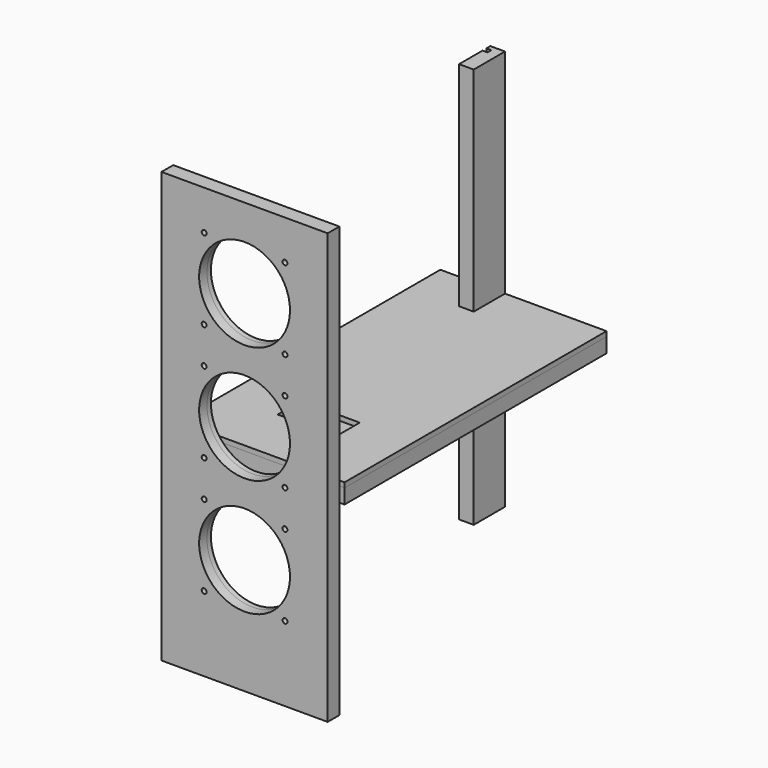
from build123d import *

# Parameters (mm, degrees)
F0_W      = 215.9
F0_H      = 558.8
F0_R      = 3.18
F0_R_2    = 59
F0_W_2    = 6.4
F0_H_2    = 538.48
F1_DEPTH  = 12.7
F2_DEPTH  = 6.35
F3_W      = 6.35
F3_H      = 425.45
F3_W_2    = 76.2
F3_H_2    = 38.1
F3_W_3    = 1.32
F3_H_3    = 6.35
F3_W_4    = 192.99
F4_DEPTH  = 12.7
F5_DEPTH  = 6.35
F6_W      = 6.35
F6_H      = 425.45
F6_W_2    = 190.45
F6_H_2    = 6.35
F7_DEPTH  = 12.7
F8_DEPTH  = 6.35
F9_W      = 6.35
F9_H      = 520.7
F9_W_2    = 38.1
F10_DEPTH = 12.7
F11_DEPTH = 6.35


with BuildPart() as f1:
    # F0 (on Front) → F1 (new body)
    with BuildSketch(Plane.XZ):
        with Locations((36.6268025339, 29.2285963915)):
            Rectangle(F0_W, F0_H)
        with Locations((-15.8731974661, -152.6714036085)):
            Circle(F0_R, mode=Mode.SUBTRACT)
        with Locations((-15.8731974661, -47.6714036085)):
            Circle(F0_R, mode=Mode.SUBTRACT)
        with Locations((-15.8731974661, -0.2714036085)):
            Circle(F0_R, mode=Mode.SUBTRACT)
        with Locations((89.1268025339, -152.6714036085)):
            Circle(F0_R, mode=Mode.SUBTRACT)
        with Locations((36.6268025339, -100.1714036085)):
            Circle(F0_R_2, mode=Mode.SUBTRACT)
        with Locations((89.1268025339, -47.6714036085)):
            Circle(F0_R, mode=Mode.SUBTRACT)
        with Locations((89.1268025339, -0.2714036085)):
            Circle(F0_R, mode=Mode.SUBTRACT)
        with Locations((-61.7731974661, 29.2285963915)):
            Rectangle(F0_W_2, F0_H_2, mode=Mode.SUBTRACT)
        with Locations((-15.8731974661, 104.7285963915)):
            Circle(F0_R, mode=Mode.SUBTRACT)
        with Locations((-15.8731974661, 152.1285963915)):
            Circle(F0_R, mode=Mode.SUBTRACT)
        with Locations((36.6268025339, 204.6285963915)):
            Circle(F0_R_2, mode=Mode.SUBTRACT)
        with Locations((-15.8731974661, 257.1285963915)):
            Circle(F0_R, mode=Mode.SUBTRACT)
        with Locations((36.6268025339, 52.2285963915)):
            Circle(F0_R_2, mode=Mode.SUBTRACT)
        with Locations((89.1268025339, 104.7285963915)):
            Circle(F0_R, mode=Mode.SUBTRACT)
        with Locations((89.1268025339, 152.1285963915)):
            Circle(F0_R, mode=Mode.SUBTRACT)
        with Locations((89.1268025339, 257.1285963915)):
            Circle(F0_R, mode=Mode.SUBTRACT)
        with Locations((-61.7731974661, 29.2285963915)):
            Rectangle(F0_W_2, F0_H_2)
    extrude(amount=F1_DEPTH)

    # F0 (on Front) → F2 (join)
    with BuildSketch(Plane.XZ):
        with Locations((36.6268025339, 29.2285963915)):
            Rectangle(F0_W, F0_H)
        with Locations((-15.8731974661, -152.6714036085)):
            Circle(F0_R, mode=Mode.SUBTRACT)
        with Locations((-15.8731974661, -47.6714036085)):
            Circle(F0_R, mode=Mode.SUBTRACT)
        with Locations((-15.8731974661, -0.2714036085)):
            Circle(F0_R, mode=Mode.SUBTRACT)
        with Locations((89.1268025339, -152.6714036085)):
            Circle(F0_R, mode=Mode.SUBTRACT)
        with Locations((36.6268025339, -100.1714036085)):
            Circle(F0_R_2, mode=Mode.SUBTRACT)
        with Locations((89.1268025339, -47.6714036085)):
            Circle(F0_R, mode=Mode.SUBTRACT)
        with Locations((89.1268025339, -0.2714036085)):
            Circle(F0_R, mode=Mode.SUBTRACT)
        with Locations((-61.7731974661, 29.2285963915)):
            Rectangle(F0_W_2, F0_H_2, mode=Mode.SUBTRACT)
        with Locations((-15.8731974661, 104.7285963915)):
            Circle(F0_R, mode=Mode.SUBTRACT)
        with Locations((-15.8731974661, 152.1285963915)):
            Circle(F0_R, mode=Mode.SUBTRACT)
        with Locations((36.6268025339, 204.6285963915)):
            Circle(F0_R_2, mode=Mode.SUBTRACT)
        with Locations((-15.8731974661, 257.1285963915)):
            Circle(F0_R, mode=Mode.SUBTRACT)
        with Locations((36.6268025339, 52.2285963915)):
            Circle(F0_R_2, mode=Mode.SUBTRACT)
        with Locations((89.1268025339, 104.7285963915)):
            Circle(F0_R, mode=Mode.SUBTRACT)
        with Locations((89.1268025339, 152.1285963915)):
            Circle(F0_R, mode=Mode.SUBTRACT)
        with Locations((89.1268025339, 257.1285963915)):
            Circle(F0_R, mode=Mode.SUBTRACT)
    extrude(amount=-F2_DEPTH)


with BuildPart() as f4:
    # F3 (on Top) → F4 (new body)
    with BuildSketch(Plane.XY):
        with Locations((-68.1481974661, 227.3674610334)):
            Rectangle(F3_W, F3_H)
        Polygon((-64.9731974661, 440.0924610334), (-64.9731974661, 14.6424610334), (-58.5731974661, 14.6424610334), (-58.5731974661, 427.3924610334), (-59.8931974661, 427.3924610334), (-59.8931974661, 433.7424610334), (-58.5731974661, 433.7424610334), (-58.5731974661, 440.0924610334), align=None)
        Polygon((-58.5731974661, 427.3924610334), (-58.5731974661, 14.6424610334), (144.5768025339, 14.6424610334), (144.5768025339, 440.0924610334), (-58.5731974661, 440.0924610334), (-58.5731974661, 433.7424610334), (134.4168025339, 433.7424610334), (134.4168025339, 427.3924610334), align=None)
        with Locations((36.6268025339, 107.6429912329)):
            Rectangle(F3_W_2, F3_H_2, mode=Mode.SUBTRACT)
        with Locations((-59.2331974661, 430.5674610334)):
            Rectangle(F3_W_3, F3_H_3)
        Polygon((-58.5731974661, 427.3924610334), (-58.5731974661, 14.6424610334), (144.5768025339, 14.6424610334), (144.5768025339, 440.0924610334), (-58.5731974661, 440.0924610334), (-58.5731974661, 433.7424610334), (134.4168025339, 433.7424610334), (134.4168025339, 427.3924610334), align=None)
        with Locations((36.6268025339, 107.6429912329)):
            Rectangle(F3_W_2, F3_H_2, mode=Mode.SUBTRACT)
        with Locations((37.9218025339, 430.5674610334)):
            Rectangle(F3_W_4, F3_H_3)
    extrude(amount=F4_DEPTH)

    # F3 (on Top) → F5 (join)
    with BuildSketch(Plane.XY):
        Polygon((-58.5731974661, 427.3924610334), (-58.5731974661, 14.6424610334), (144.5768025339, 14.6424610334), (144.5768025339, 440.0924610334), (-58.5731974661, 440.0924610334), (-58.5731974661, 433.7424610334), (134.4168025339, 433.7424610334), (134.4168025339, 427.3924610334), align=None)
        with Locations((36.6268025339, 107.6429912329)):
            Rectangle(F3_W_2, F3_H_2, mode=Mode.SUBTRACT)
        Polygon((-58.5731974661, 427.3924610334), (-58.5731974661, 14.6424610334), (144.5768025339, 14.6424610334), (144.5768025339, 440.0924610334), (-58.5731974661, 440.0924610334), (-58.5731974661, 433.7424610334), (134.4168025339, 433.7424610334), (134.4168025339, 427.3924610334), align=None)
        with Locations((36.6268025339, 107.6429912329)):
            Rectangle(F3_W_2, F3_H_2, mode=Mode.SUBTRACT)
        with Locations((-68.1481974661, 227.3674610334)):
            Rectangle(F3_W, F3_H)
    extrude(amount=-F5_DEPTH)


with BuildPart() as f7:
    # F6 (on Top) → F7 (new body)
    with BuildSketch(Plane.XY):
        with Locations((-68.1481974661, 227.3674610334)):
            Rectangle(F6_W, F6_H)
        Polygon((-64.9731974661, 440.0924610334), (-64.9731974661, 14.6424610334), (-58.5731974661, 14.6424610334), (-58.5731974661, 427.3924610334), (-58.5731974661, 433.7424610334), (-58.5731974661, 440.0924610334), align=None)
        Polygon((-58.5731974661, 427.3924610334), (-58.5731974661, 14.6424610334), (144.5768025339, 14.6424610334), (144.5768025339, 440.0924610334), (-58.5731974661, 440.0924610334), (-58.5731974661, 433.7424610334), (131.8768025339, 433.7424610334), (131.8768025339, 427.3924610334), align=None)
        with Locations((36.6518025339, 430.5674610334)):
            Rectangle(F6_W_2, F6_H_2)
    extrude(amount=-F7_DEPTH)

    # F6 (on Top) → F8 (join)
    with BuildSketch(Plane.XY):
        Polygon((-58.5731974661, 427.3924610334), (-58.5731974661, 14.6424610334), (144.5768025339, 14.6424610334), (144.5768025339, 440.0924610334), (-58.5731974661, 440.0924610334), (-58.5731974661, 433.7424610334), (131.8768025339, 433.7424610334), (131.8768025339, 427.3924610334), align=None)
        Polygon((-58.5731974661, 427.3924610334), (-58.5731974661, 14.6424610334), (144.5768025339, 14.6424610334), (144.5768025339, 440.0924610334), (-58.5731974661, 440.0924610334), (-58.5731974661, 433.7424610334), (131.8768025339, 433.7424610334), (131.8768025339, 427.3924610334), align=None)
        with Locations((-68.1481974661, 227.3674610334)):
            Rectangle(F6_W, F6_H)
    extrude(amount=F8_DEPTH)


with BuildPart() as f10:
    # F9 (on Right) → F10 (new body)
    with BuildSketch(Plane.YZ):
        with Locations((436.9174610334, 29.2285963915)):
            Rectangle(F9_W, F9_H)
        with Locations((430.5674610334, 29.2285963915)):
            Rectangle(F9_W, F9_H)
        with Locations((408.3424610334, 29.2285963915)):
            Rectangle(F9_W_2, F9_H)
    extrude(amount=F10_DEPTH)

    # F9 (on Right) → F11 (join)
    with BuildSketch(Plane.YZ):
        with Locations((436.9174610334, 29.2285963915)):
            Rectangle(F9_W, F9_H)
        with Locations((408.3424610334, 29.2285963915)):
            Rectangle(F9_W_2, F9_H)
    extrude(amount=-F11_DEPTH)


solid = Compound([f1.part, f4.part, f7.part, f10.part])
